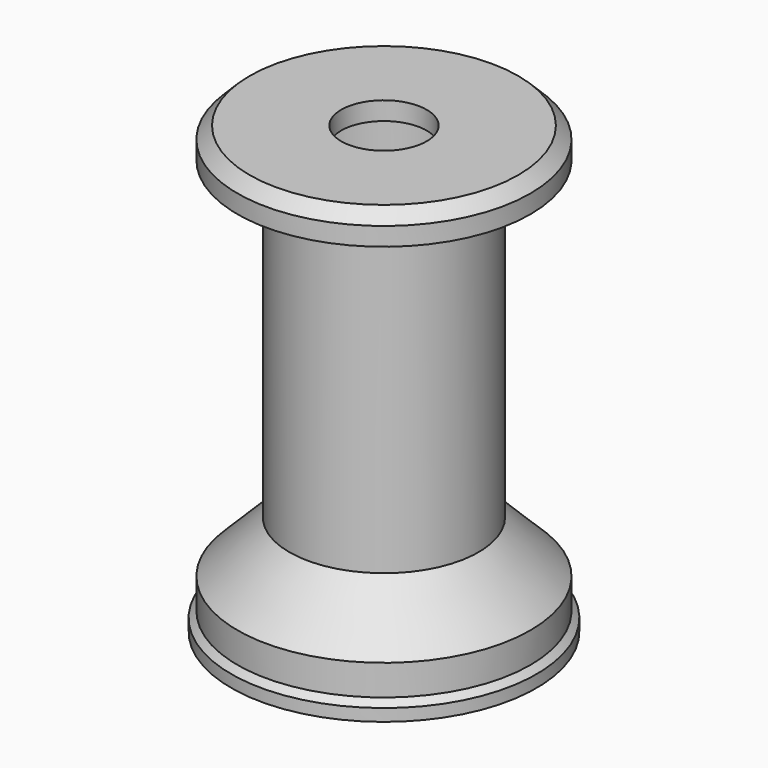
from build123d import *

# Parameters (mm, degrees)
CHAMFER_SIZE         = 3
CHAMFER001_SIZE      = 2
BODY_PLACEMENT_ANGLE = 180


with BuildPart() as part:
    # Sketch → Revolution (revolve)
    with BuildSketch(Plane.XZ):
        Polygon((24, 0), (7, 0), (7, 3), (12.5, 3), (12.5, 73), (25, 73), (25, 71), (24, 70), (24, 65), (15.5, 56.5), (15.5, 5), (24, 5), align=None)
    revolve(axis=Axis((0, 0, 0), (0, 0, 1)))

    # Chamfer
    chamfer_edges = [part.edges().sort_by_distance(p)[0] for p in [
        (-12.5, 0, 73),
    ]]
    chamfer(chamfer_edges, length=CHAMFER_SIZE)

    # Chamfer001
    chamfer001_edges = [part.edges().sort_by_distance(p)[0] for p in [
        (-24, 0, 0),
    ]]
    chamfer(chamfer001_edges, length=CHAMFER001_SIZE)


with BuildPart() as part_1:
    # Body placement: moved
    add(part.part.moved(Location((0, 0, 71))).rotate(Axis((0, 0, 71), (0, 1, 0)), BODY_PLACEMENT_ANGLE))


solid = part_1.part
